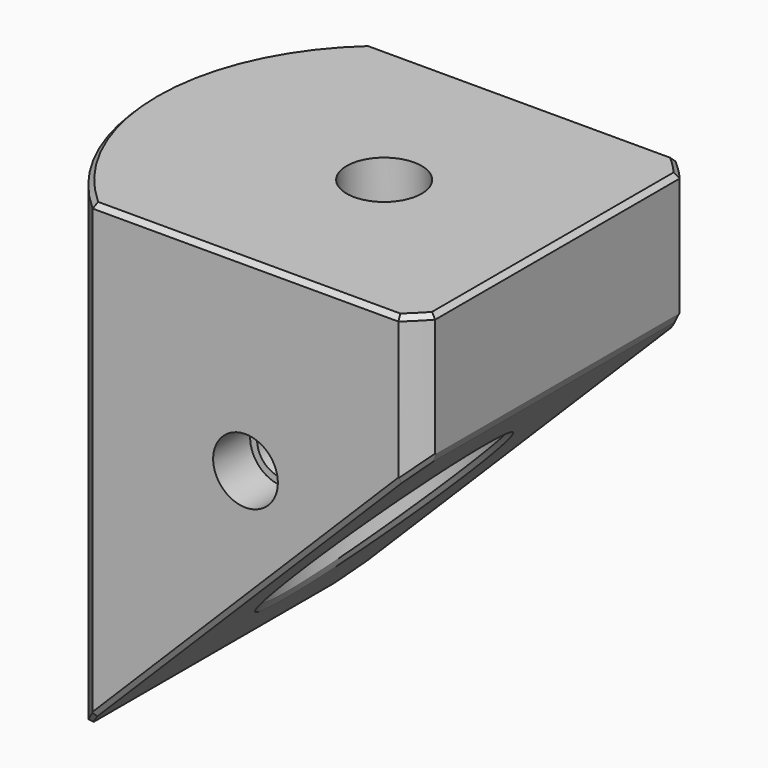
from build123d import *

# Parameters (mm, degrees)
PAD045_DEPTH         = 15
SKETCH178_R          = 8.4
POCKET110_DEPTH      = 40.078905
SKETCH180_R          = 3.25
POCKET111_DEPTH      = 4.001
SKETCH181_R          = 62.5
SKETCH181_R_2        = 20
POCKET112_DEPTH      = 14.001
POCKET112_DEPTH_BACK = 30.078905
SKETCH183_R          = 2.2
POCKET114_DEPTH      = 15.001
POCKET114_DEPTH_BACK = 15.001
SKETCH184_W          = 6
SKETCH184_H          = 53.327905
POCKET193_DEPTH      = 15.001
POCKET193_DEPTH_BACK = 15.001
SKETCH286_R          = 2.8
POCKET194_DEPTH      = 4
CHAMFER004_SIZE      = 0.4


with BuildPart() as part:
    # Sketch177 → Pad045 (new body, symmetric)
    with BuildSketch(Plane.XZ):
        Polygon((-18, -14), (15, 19), (15, 30.077905), (-20, 30.077905), (-20, -14), align=None)
    extrude(amount=PAD045_DEPTH, both=True)

    # Sketch178 (on DatumPlane) → Pocket110 (cut, through all)
    with BuildSketch(Plane.XY.offset(26.077905)):
        Circle(SKETCH178_R)
    extrude(amount=-POCKET110_DEPTH, mode=Mode.SUBTRACT)

    # Sketch180 (on DatumPlane) → Pocket111 (cut, through all)
    with BuildSketch(Plane.XY.offset(26.077905)):
        Circle(SKETCH180_R)
    extrude(amount=POCKET111_DEPTH, mode=Mode.SUBTRACT)

    # Sketch181 → Pocket112 (cut, two sides)
    with BuildSketch(Plane.XY) as pocket112_sk:
        Circle(SKETCH181_R)
        Circle(SKETCH181_R_2, mode=Mode.SUBTRACT)
    extrude(amount=-POCKET112_DEPTH, mode=Mode.SUBTRACT)
    extrude(pocket112_sk.sketch, amount=POCKET112_DEPTH_BACK, mode=Mode.SUBTRACT)

    # Sketch183 → Pocket114 (cut, two sides)
    with BuildSketch(Plane.XZ) as pocket114_sk:
        with Locations((0, 14)):
            Circle(SKETCH183_R)
    extrude(amount=-POCKET114_DEPTH, mode=Mode.SUBTRACT)
    extrude(pocket114_sk.sketch, amount=POCKET114_DEPTH_BACK, mode=Mode.SUBTRACT)

    # Sketch184 → Pocket193 (cut, two sides)
    with BuildSketch(Plane.XZ) as pocket193_sk:
        with Locations((-18, -4.586048)):
            Rectangle(SKETCH184_W, SKETCH184_H)
    extrude(amount=-POCKET193_DEPTH, mode=Mode.SUBTRACT)
    extrude(pocket193_sk.sketch, amount=POCKET193_DEPTH_BACK, mode=Mode.SUBTRACT)

    # Sketch286 (on Face7 of Pad045) → Pocket194 (cut)
    with BuildSketch(Plane.XZ.offset(15)):
        with Locations((0, 14)):
            Circle(SKETCH286_R)
    pocket194 = extrude(amount=-POCKET194_DEPTH, mode=Mode.SUBTRACT)

    # Mirrored010: Pocket194 across XZ
    add(pocket194.mirror(Plane.XZ), mode=Mode.SUBTRACT)

    # Chamfer004
    chamfer004_edges = [part.edges().sort_by_distance(p)[0] for p in [
        (-18.228757, 8.228757, 30.077905),
        (-18.228757, -8.228757, 30.077905),
        (0, 15, 30.077905),
        (14.142136, 14.142136, 30.077905),
        (15, 0, 30.077905),
        (14.142136, -14.142136, 30.077905),
        (0, -15, 30.077905),
        (15, 0, 19),
        (14.132889, 14.151376, 18.132889),
        (0, 15, 4),
        (14.132889, -14.151376, 18.132889),
        (0, -15, 4),
        (-8.399998, -0.005359, -4.399998),
        (-14.132889, 14.151376, -10.132889),
        (-15, 0, -11),
        (-14.132889, -14.151376, -10.132889),
        (-18.708287, -7.071068, 22.077905),
        (-18.708287, 7.071068, 22.077905),
    ]]
    chamfer(chamfer004_edges, length=CHAMFER004_SIZE)


with BuildPart() as part_1:
    # Body022036 placement: moved
    add(part.part.moved(Location((-3.125, 0, 854.79899))))


solid = part_1.part
